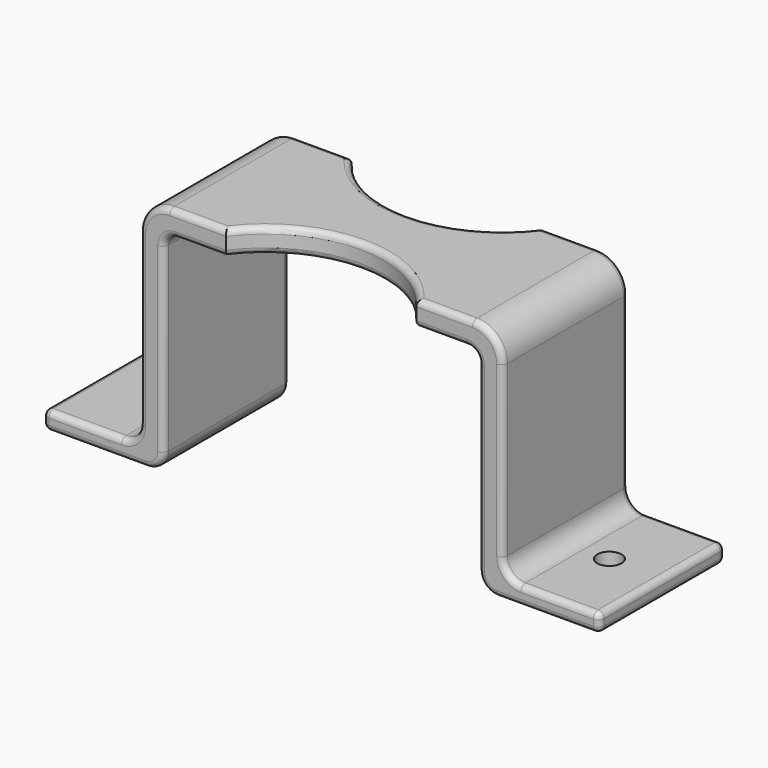
from build123d import *

# Parameters (mm, degrees)
F1_DEPTH = 13
F3_DEPTH = 39.001
F4_R     = 2.0118562564
F5_DEPTH = 39.001
F6_R     = 1


with BuildPart() as f1:
    # F0 (on Front) → F1 (new body, symmetric)
    with BuildSketch(Plane.XZ):
        with BuildLine():
            ThreePointArc((-26.05, 15.5), (-25.4642135624, 16.9142135624), (-24.05, 17.5))
            Line((-24.05, 17.5), (24.05, 17.5))
            ThreePointArc((24.05, 17.5), (25.4642135624, 16.9142135624), (26.05, 15.5))
            Line((26.05, 15.5), (26.05, -14.5))
            ThreePointArc((26.05, -14.5), (26.9286796564, -16.6213203436), (29.05, -17.5))
            Line((29.05, -17.5), (30.05, -17.5))
            Line((30.05, -17.5), (45.05, -17.5))
            ThreePointArc((45.05, -17.5), (45.7571067812, -17.2071067812), (46.05, -16.5))
            Line((46.05, -16.5), (46.05, -15.5))
            ThreePointArc((46.05, -15.5), (45.7571067812, -14.7928932188), (45.05, -14.5))
            Line((45.05, -14.5), (33.05, -14.5))
            ThreePointArc((33.05, -14.5), (30.9286796564, -13.6213203436), (30.05, -11.5))
            Line((30.05, -11.5), (30.05, 16.5))
            ThreePointArc((30.05, 16.5), (28.5855339059, 20.0355339059), (25.05, 21.5))
            Line((25.05, 21.5), (-25.05, 21.5))
            ThreePointArc((-25.05, 21.5), (-28.5855339059, 20.0355339059), (-30.05, 16.5))
            Line((-30.05, 16.5), (-30.05, -11.5))
            ThreePointArc((-30.05, -11.5), (-30.9286796564, -13.6213203436), (-33.05, -14.5))
            Line((-33.05, -14.5), (-45.05, -14.5))
            ThreePointArc((-45.05, -14.5), (-45.7571067812, -14.7928932188), (-46.05, -15.5))
            Line((-46.05, -15.5), (-46.05, -16.5))
            ThreePointArc((-46.05, -16.5), (-45.7571067812, -17.2071067812), (-45.05, -17.5))
            Line((-45.05, -17.5), (-30.05, -17.5))
            Line((-30.05, -17.5), (-29.05, -17.5))
            ThreePointArc((-29.05, -17.5), (-26.9286796564, -16.6213203436), (-26.05, -14.5))
            Line((-26.05, -14.5), (-26.05, 15.5))
        make_face()
    extrude(amount=F1_DEPTH, both=True)

    # F2 (on face) → F3 (cut, through all)
    with BuildSketch(Plane.XY.offset(21.5)):
        with BuildLine():
            Line((15.748015748, 13), (-15.748015748, 13))
            ThreePointArc((-15.748015748, 13), (0, 5), (15.748015748, 13))
        make_face()
        with BuildLine():
            ThreePointArc((15.748015748, -13), (0, -5), (-15.748015748, -13))
            Line((-15.748015748, -13), (15.748015748, -13))
        make_face()
    extrude(amount=-F3_DEPTH, mode=Mode.SUBTRACT)

    # F4 (on face) → F5 (cut, through all)
    with BuildSketch(Plane(origin=(0, 0, -17.5), x_dir=(1, 0, 0), z_dir=(0, 0, -1))):
        with Locations((37.2966788709, -0.0137676216)):
            Circle(F4_R)
        with Locations((-37.2966788709, -0.0137676216)):
            Circle(F4_R)
    extrude(amount=-F5_DEPTH, mode=Mode.SUBTRACT)

    # F6
    f6_edges = [f1.edges().sort_by_distance(p)[0] for p in [
        (-30.05, -13, 2.5),
        (-28.585534, -13, 20.035534),
        (-20.399008, -13, 21.5),
        (0, -5, 21.5),
        (0, -5, 17.5),
        (19.899008, -13, 17.5),
        (20.399008, -13, 21.5),
        (28.585534, -13, 20.035534),
        (24.05, 0, 17.5),
        (30.05, 13, 2.5),
        (0, 5, 21.5),
        (0, 5, 17.5),
        (-25.464214, 13, 16.914214),
    ]]
    fillet(f6_edges, radius=F6_R)


solid = f1.part
